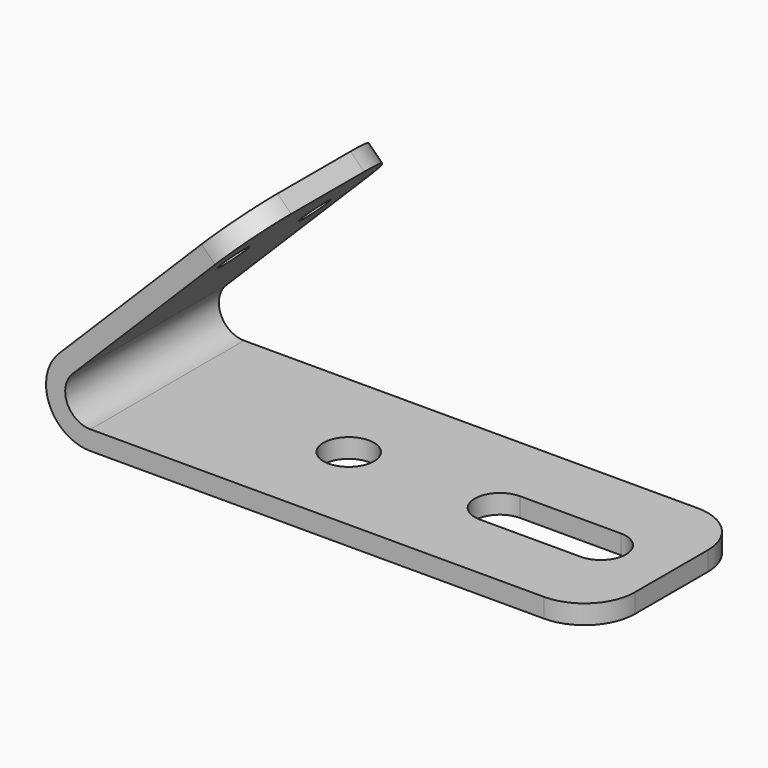
from build123d import *

# Parameters (mm, degrees)
F1_DEPTH = 9.525
F3_D     = 3
F3_DEPTH = 12
F4_R     = 2.5
F5_DEPTH = 25
F6_R     = 5


with BuildPart() as f1:
    # F0 (on Front) → F1 (new body, symmetric)
    with BuildSketch(Plane.XZ):
        with BuildLine():
            ThreePointArc((-3.11127, 7.51127), (-4.06507, 2.716193), (0, 0))
            Line((0, 0), (50, 0))
            Line((50, 0), (50, 1.9))
            Line((50, 1.9), (0, 1.9))
            ThreePointArc((0, 1.9), (-2.309699, 3.443291), (-1.767767, 6.167767))
            Line((-1.767767, 6.167767), (15.909903, 23.845436))
            Line((15.909903, 23.845436), (14.5664, 25.188939))
            Line((14.5664, 25.188939), (-3.11127, 7.51127))
        make_face()
    extrude(amount=F1_DEPTH, both=True)

    # F3
    with Locations(Plane(origin=(-5.31127, 0, 5.31127), x_dir=(0, -1, 0), z_dir=(-0.707107, 0, 0.707107))):
        with Locations((-5.025, 20.61127), (5.025, 20.61127)):
            Hole(F3_D / 2, depth=F3_DEPTH)

    # F4 (on face) → F5 (cut)
    with BuildSketch(Plane.XY.offset(1.9)):
        with BuildLine():
            Line((33, -2.5), (43, -2.5))
            ThreePointArc((43, -2.5), (45.5, 0), (43, 2.5))
            Line((43, 2.5), (33, 2.5))
            ThreePointArc((33, 2.5), (30.5, 0), (33, -2.5))
        make_face()
        with Locations((18, 0)):
            Circle(F4_R)
    extrude(amount=-F5_DEPTH, mode=Mode.SUBTRACT)

    # F6
    f6_edges = [f1.edges().sort_by_distance(p)[0] for p in [
        (50, -9.525, 0.95),
        (50, 9.525, 0.95),
        (15.238151, -9.525, 24.517188),
        (15.238151, 9.525, 24.517188),
    ]]
    fillet(f6_edges, radius=F6_R)


solid = f1.part
